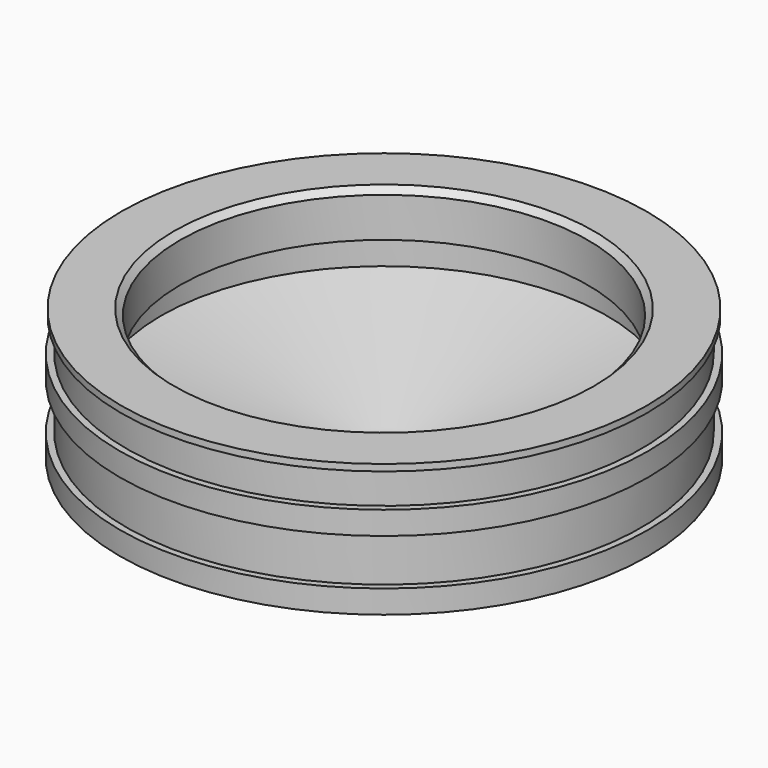
from build123d import *


with BuildPart() as f1:
    # F0 (on Front) → F1 (revolve)
    with BuildSketch(Plane.XZ):
        Polygon((-15.9, 0), (-19.9, 0), (-19.9, -0.5), (-19.5, -0.5), (-19.5, -3), (-20, -3), (-20, -4.75), (-19.5, -4.75), (-19.5, -8.25), (-20, -8.25), (-20, -10), (0, -15.5), (0, -10.595625), (-16.875, -5.955), (-16.875, -3.455), (-15.445, -3.455), (-15.445, -0.455), align=None)
    revolve(axis=Axis((0, 0, -13.047812), (0, 0, 1)))


solid = f1.part
